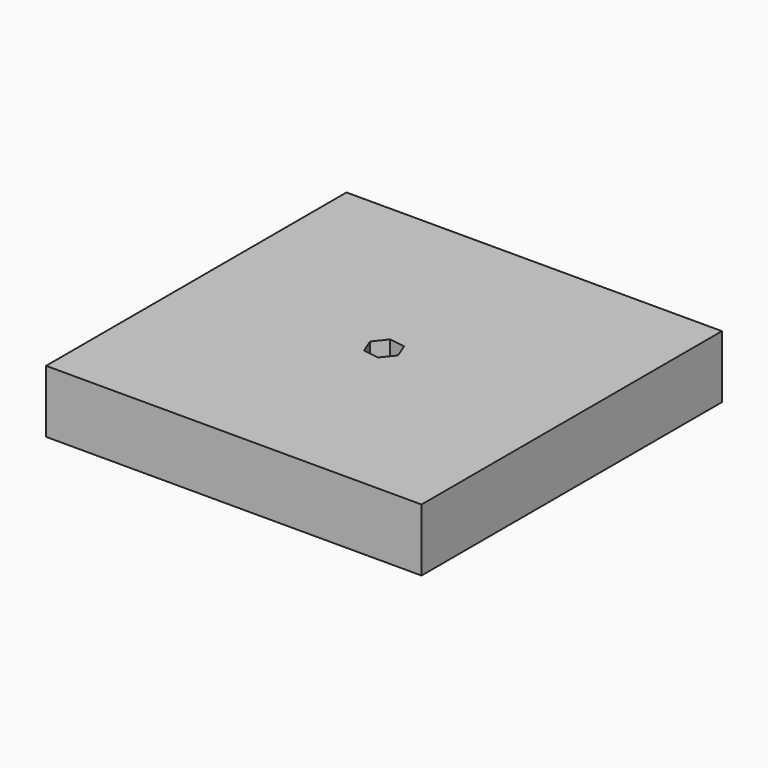
from build123d import *

# Parameters (mm, degrees)
F0_W     = 150
F0_H     = 150
F1_DEPTH = 25


with BuildPart() as f1:
    # F0 (on Top) → F1 (new body)
    with BuildSketch(Plane.XY):
        with Locations((-151.240738, 3.709819)):
            Rectangle(F0_W, F0_H)
        Polygon((-153.590513, 9.67208), (-147.252156, 8.725914), (-144.902381, 2.763653), (-148.890964, -2.252442), (-155.229321, -1.306276), (-157.579095, 4.655985), align=None, mode=Mode.SUBTRACT)
    extrude(amount=F1_DEPTH)


solid = f1.part
